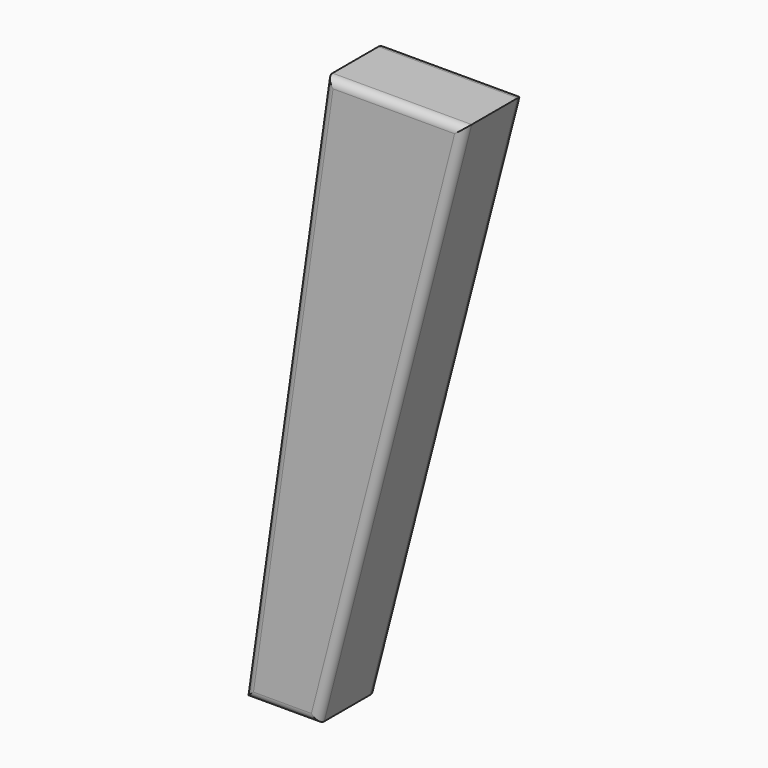
from build123d import *

# Parameters (mm, degrees)
F1_DEPTH = 45
F2_R     = 5


with BuildPart() as f1:
    # F0 (on Front) → F1 (new body)
    with BuildSketch(Plane.XZ):
        Polygon((0, 175), (-85, 175), (-135, -175), (-90, -175), align=None)
    extrude(amount=F1_DEPTH)

    # F2
    f2_edges = [f1.edges().sort_by_distance(p)[0] for p in [
        (-42.5, -45, 175),
        (-110, -45, 0),
        (-112.5, -45, -175),
        (-45, -45, 0),
        (-42.5, 0, 175),
        (-110, 0, 0),
        (-112.5, 0, -175),
        (-45, 0, 0),
    ]]
    fillet(f2_edges, radius=F2_R)


solid = f1.part
